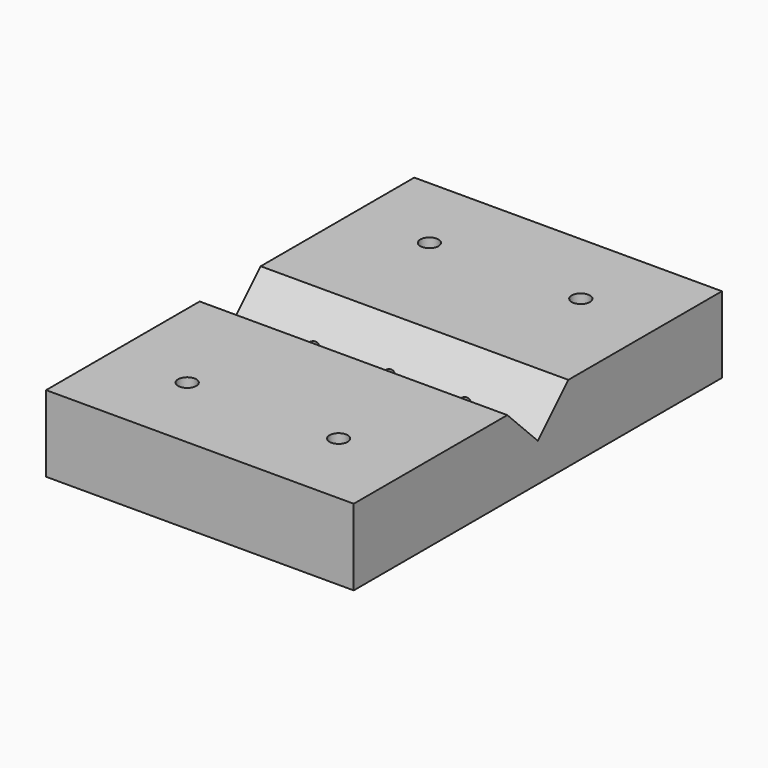
from build123d import *

# Parameters (mm, degrees)
F0_W     = 50.8
F0_H     = 76
F0_R     = 1.5
F1_DEPTH = 12.6
F2_R     = 1.5
F3_DEPTH = 10
F4_DEPTH = 50.8
F5_DEPTH = 12
F6_R     = 1.5
F7_DEPTH = 10


with BuildPart() as f1:
    # F0 (on Top) → F1 (new body)
    with BuildSketch(Plane.XY):
        Rectangle(F0_W, F0_H)
        with Locations((-12.5, -25)):
            Circle(F0_R, mode=Mode.SUBTRACT)
        with Locations((12.5, -25)):
            Circle(F0_R, mode=Mode.SUBTRACT)
        with Locations((-12.5, 0)):
            Circle(F0_R, mode=Mode.SUBTRACT)
        Circle(F0_R, mode=Mode.SUBTRACT)
        with Locations((-12.5, 25)):
            Circle(F0_R, mode=Mode.SUBTRACT)
        with Locations((12.5, 0)):
            Circle(F0_R, mode=Mode.SUBTRACT)
        with Locations((12.5, 25)):
            Circle(F0_R, mode=Mode.SUBTRACT)
    extrude(amount=F1_DEPTH)

    # F2 (on face) → F3 (cut)
    with BuildSketch(Plane(origin=(-25.4, 0, 0), x_dir=(0, -1, 0), z_dir=(-1, 0, 0))):
        with Locations((-12.5, 6.3)):
            Circle(F2_R)
        with Locations((12.5, 6.3)):
            Circle(F2_R)
    extrude(amount=-F3_DEPTH, mode=Mode.SUBTRACT)

    # F2 (on face) → F4 (cut)
    with BuildSketch(Plane(origin=(-25.4, 0, 0), x_dir=(0, -1, 0), z_dir=(-1, 0, 0))):
        Polygon((6.3, 12.6), (0, 12.6), (-6.3, 12.6), (0, 6.3), align=None)
    extrude(amount=-F4_DEPTH, mode=Mode.SUBTRACT)

    # F0 (on Top) → F5 (cut)
    with BuildSketch(Plane.XY):
        with Locations((12.5, 0)):
            Circle(F0_R)
        Circle(F0_R)
        with Locations((-12.5, 0)):
            Circle(F0_R)
    extrude(amount=F5_DEPTH, mode=Mode.SUBTRACT)

    # F6 (on face) → F7 (cut)
    with BuildSketch(Plane(origin=(0, 38, 0), x_dir=(-1, 0, 0), z_dir=(0, 1, 0))):
        with Locations((0, 6.3)):
            Circle(F6_R)
    extrude(amount=-F7_DEPTH, mode=Mode.SUBTRACT)


solid = f1.part
